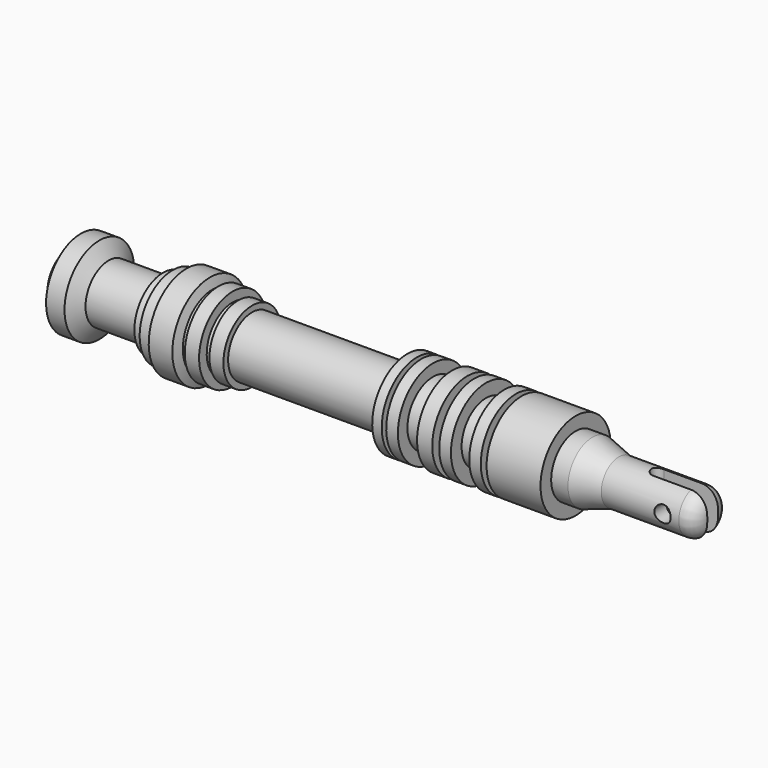
from build123d import *

# Parameters (mm, degrees)
F2_R     = 1.5
F3_DEPTH = 12.7
F5_DEPTH = 12.5


with BuildPart() as f1:
    # F0 (on Front) → F1 (revolve)
    with BuildSketch(Plane.XZ):
        with BuildLine():
            Line((0, 5.227802), (0, 3.5))
            Line((0, 3.5), (13.300416, 3.5))
            Line((13.300416, 3.5), (13.300416, 2))
            Line((13.300416, 2), (15, 2))
            Line((15, 2), (15, 0))
            Line((15, 0), (118, 0))
            Line((118, 0), (118, 1.055168))
            ThreePointArc((118, 1.055168), (117.12132, 3.176489), (115, 4.055168))
            Line((115, 4.055168), (100.770019, 4.055168))
            Line((100.770019, 4.055168), (95.903615, 5.61387))
            Line((95.903615, 5.61387), (92.819303, 5.61387))
            Line((92.819303, 5.61387), (92.819303, 8.060487))
            Line((92.819303, 8.060487), (82.9174, 8.060487))
            Line((82.9174, 8.060487), (82.9174, 6.148748))
            Line((82.9174, 6.148748), (81.859961, 6.148748))
            Line((81.859961, 6.148748), (81.859961, 8.060487))
            Line((81.859961, 8.060487), (79.733633, 8.060487))
            Line((79.733633, 8.060487), (79.733633, 5.61387))
            Line((79.733633, 5.61387), (76.3731, 5.61387))
            Line((76.3731, 5.61387), (76.3731, 8.060487))
            Line((76.3731, 8.060487), (74.226245, 8.060487))
            Line((74.226245, 8.060487), (74.226245, 6.098706))
            Line((74.226245, 6.098706), (72.943754, 6.098706))
            Line((72.943754, 6.098706), (72.943754, 8.060487))
            Line((72.943754, 8.060487), (70.152812, 8.060487))
            Line((70.152812, 8.060487), (70.152812, 5.870874))
            Line((70.152812, 5.870874), (66.633068, 5.870874))
            Line((66.633068, 5.870874), (66.633068, 8.060487))
            Line((66.633068, 8.060487), (64.490482, 8.060487))
            Line((64.490482, 8.060487), (64.490482, 5.859734))
            Line((64.490482, 5.859734), (63.669845, 5.859734))
            Line((63.669845, 5.859734), (63.669845, 8.060487))
            Line((63.669845, 8.060487), (61.918698, 8.060487))
            Line((61.918698, 8.060487), (61.918698, 5.5))
            Line((61.918698, 5.5), (33.415843, 5.5))
            Line((33.415843, 5.5), (33.415843, 6.582501))
            Line((33.415843, 6.582501), (30.852729, 6.582501))
            Line((30.852729, 6.582501), (30.852729, 5.927347))
            Line((30.852729, 5.927347), (29.827483, 5.927347))
            Line((29.827483, 5.927347), (29.827483, 7.679923))
            Line((29.827483, 7.679923), (27.20741, 7.679923))
            Line((27.20741, 7.679923), (27.20741, 6.861783))
            Line((27.20741, 6.861783), (26.188558, 6.861783))
            Line((26.188558, 6.861783), (25.678367, 8.63155))
            Line((25.678367, 8.63155), (21.340726, 8.63155))
            Line((21.340726, 8.63155), (21.340726, 7.579132))
            Line((21.340726, 7.579132), (18.834569, 7.579132))
            Line((18.834569, 7.579132), (18.834569, 6.582501))
            Line((18.834569, 6.582501), (17.069861, 6.582501))
            Line((17.069861, 6.582501), (17.069861, 5.295536))
            Line((17.069861, 5.295536), (7.069861, 5.295536))
            Line((7.069861, 5.295536), (5.376487, 8))
            Line((5.376487, 8), (1.989738, 8))
            Line((1.989738, 8), (1.989738, 5.227802))
            Line((1.989738, 5.227802), (0, 5.227802))
        make_face()
    revolve(axis=Axis((66.5, 0, 0), (1, 0, 0)))

    # F2 (on Front) → F3 (cut, symmetric)
    with BuildSketch(Plane.XZ):
        with Locations((112, 0)):
            Circle(F2_R)
    extrude(amount=F3_DEPTH, both=True, mode=Mode.SUBTRACT)

    # F4 (on Top) → F5 (cut, symmetric)
    with BuildSketch(Plane.XY):
        with BuildLine():
            Line((119.202645, 1.249984), (108.006297, 1.249984))
            ThreePointArc((108.006297, 1.249984), (106.750004, 0.003148), (108, -1.25))
            Line((108, -1.25), (119.202645, -1.25))
            Line((119.202645, -1.25), (119.202645, 1.249984))
        make_face()
    extrude(amount=F5_DEPTH, both=True, mode=Mode.SUBTRACT)


solid = f1.part
